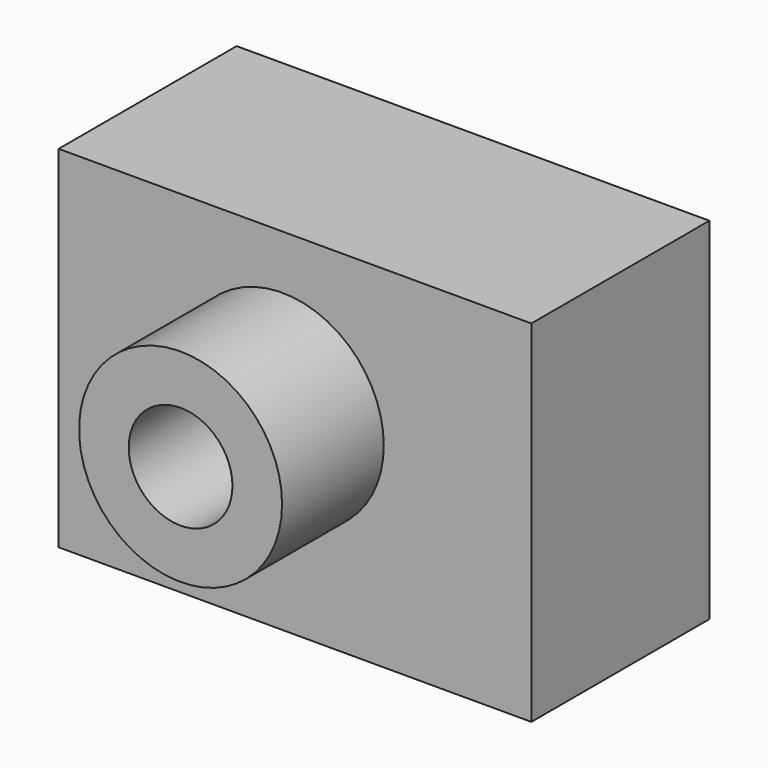
from build123d import *

# Parameters (mm, degrees)
F0_W     = 94.439332
F0_H     = 70.08286
F1_DEPTH = 44.45
F2_R     = 20.277827
F3_DEPTH = 25.4
F4_R     = 10.364463
F5_DEPTH = 69.85


with BuildPart() as f1:
    # F0 (on Front) → F1 (new body)
    with BuildSketch(Plane.XZ):
        with Locations((2.542602, -3.987971)):
            Rectangle(F0_W, F0_H)
    extrude(amount=F1_DEPTH)

    # F2 (on face) → F3 (join)
    with BuildSketch(Plane.XZ.offset(44.45)):
        Circle(F2_R)
    extrude(amount=F3_DEPTH)

    # F4 (on face) → F5 (cut, through all)
    with BuildSketch(Plane.XZ.offset(69.85)):
        Circle(F4_R)
    extrude(amount=-F5_DEPTH, mode=Mode.SUBTRACT)


solid = f1.part
